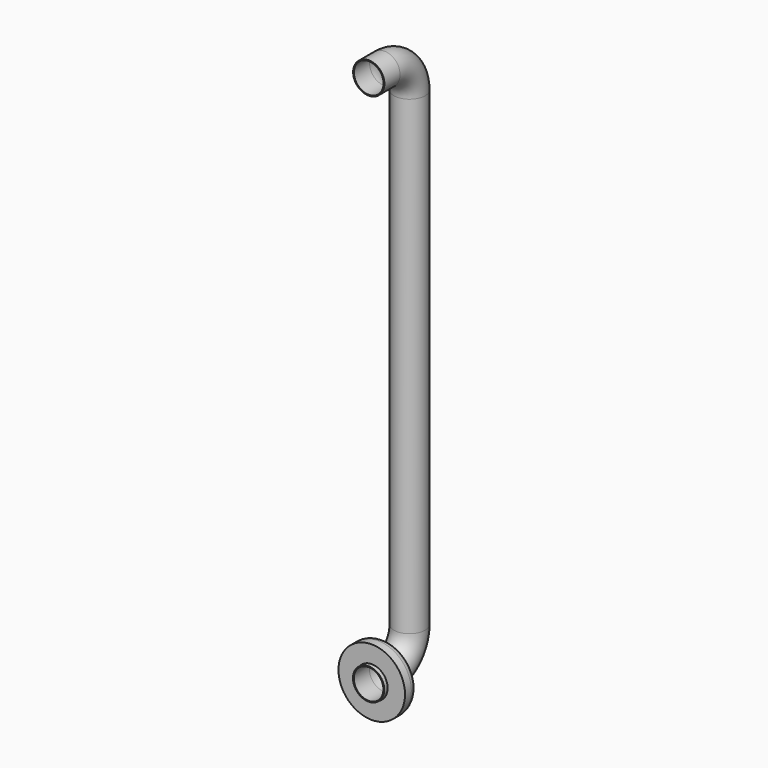
from build123d import *

# Parameters (mm, degrees)
F0_R        = 19.9259
F0_R_2      = 18.869668
F2_DEPTH    = 25
F2_FACE_R   = 19.9259
F2_FACE_R_2 = 18.869668
F4_R        = 42.462527
F4_R_2      = 20.25
F5_DEPTH    = 20
F6_R        = 10


with BuildPart() as f2:
    # F0 (on Front) → F2 (new body)
    with BuildSketch(Plane.XZ):
        Circle(F0_R)
        Circle(F0_R_2, mode=Mode.SUBTRACT)
    extrude(amount=F2_DEPTH)


with BuildPart() as f3:
    # F3: sweep along a path in F1
    with BuildLine(Plane.YZ) as f3_path:
        ThreePointArc((0, 0), (28.447035, 11.783148), (40.230183, 40.230183))
        Line((40.230183, 40.230183), (40.230183, 640.230183))
        ThreePointArc((40.230183, 640.230183), (28.514451, 668.514453), (0.230179, 680.230179))
        Line((0.230179, 680.230179), (-24.763696, 680.230176))
    # F2_face (on face) → F3 (sweep)
    with BuildSketch(Plane(origin=(0, 0, 0), x_dir=(1, 0, 0), z_dir=(0, 1, 0))):
        Circle(F2_FACE_R)
        Circle(F2_FACE_R_2, mode=Mode.SUBTRACT)
    sweep(path=f3_path.line)


with BuildPart() as f5:
    # F4 (on Front) → F5 (new body)
    with BuildSketch(Plane.XZ):
        Circle(F4_R)
        Circle(F4_R_2, mode=Mode.SUBTRACT)
    extrude(amount=F5_DEPTH)

    # F6
    f6_edges = [f5.edges().sort_by_distance(p)[0] for p in [
        (-42.462527, 0, 0),
    ]]
    fillet(f6_edges, radius=F6_R)


solid = Compound([f2.part, f3.part, f5.part])
